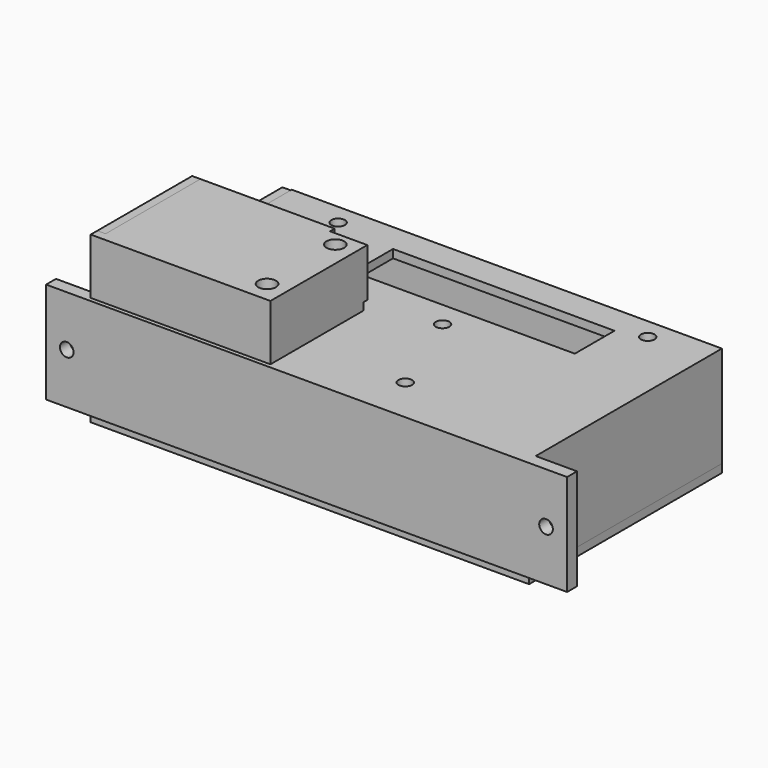
from build123d import *

# Parameters (mm, degrees)
SKETCH001_R          = 1.65
SKETCH001_W          = 53.6
SKETCH001_H          = 12
PAD_DEPTH            = 2
SKETCH002_R          = 2.65
SKETCH002_R_2        = 1.65
PAD001_DEPTH         = 6.5
SKETCH003_R          = 2.65
SKETCH003_R_2        = 1.65
PAD002_DEPTH         = 6.5
SKETCH004_R          = 2.65
SKETCH004_R_2        = 1.65
PAD003_DEPTH         = 6.5
SKETCH005_R          = 2.65
SKETCH005_R_2        = 1.65
PAD004_DEPTH         = 6.5
SKETCH006_R          = 2.65
SKETCH006_R_2        = 1.65
PAD005_DEPTH         = 6.5
PAD006_DEPTH         = 24.5
CYLINDER_R           = 1.65
CYLINDER_DEPTH       = 100
CYLINDER001_R        = 1.65
CYLINDER001_DEPTH    = 100
SKETCH015_W          = 8
SKETCH015_H          = 8
PAD012_DEPTH         = 9
CYLINDER024_R        = 1.65
CYLINDER024_DEPTH    = 10
CYLINDER025_R        = 1.95
CYLINDER025_DEPTH    = 5.7
CYLINDER026_R        = 2.15
CYLINDER026_DEPTH    = 4
SKETCH008_W          = 106.1
SKETCH008_H          = 58.34
SKETCH008_R          = 2.15
PAD007_DEPTH         = 2
CYLINDER002_R        = 3
CYLINDER002_DEPTH    = 4
CYLINDER003_R        = 3
CYLINDER003_DEPTH    = 4
CYLINDER004_R        = 3
CYLINDER004_DEPTH    = 4
CYLINDER005_R        = 1.65
CYLINDER005_DEPTH    = 10
CYLINDER006_R        = 1.65
CYLINDER006_DEPTH    = 10
CYLINDER007_R        = 1.65
CYLINDER007_DEPTH    = 10
CYLINDER008_R        = 1.96
CYLINDER008_DEPTH    = 3.7
CYLINDER009_R        = 1.96
CYLINDER009_DEPTH    = 3.7
CYLINDER010_R        = 1.96
CYLINDER010_DEPTH    = 3.7
CYLINDER011_R        = 2.15
CYLINDER011_DEPTH    = 2.2
CYLINDER012_R        = 2.15
CYLINDER012_DEPTH    = 2.2
CYLINDER013_R        = 2.15
CYLINDER013_DEPTH    = 2.2
PAD008_START         = 2
SKETCH009_W          = 101.9
SKETCH009_H          = 53.94
PAD008_DEPTH         = 4
SKETCH010_R          = 3.25
SKETCH010_R_2        = 1.65
SKETCH010_W          = 10
SKETCH010_H          = 12
PAD009_DEPTH         = 2
SKETCH017_R          = 2.15
PAD014_DEPTH         = 4
SKETCH011_W          = 39.5
SKETCH011_H          = 26.7
PAD010_DEPTH         = 2
PAD011_DEPTH         = 2
PAD011_DEPTH_BACK    = 11.5
CYLINDER014_R        = 4
CYLINDER014_DEPTH    = 5.5
CYLINDER015_R        = 2.6
CYLINDER015_DEPTH    = 10
CYLINDER016_R        = 4
CYLINDER016_DEPTH    = 5.5
CYLINDER017_R        = 2.6
CYLINDER017_DEPTH    = 9.7
CYLINDER018_R        = 1.65
CYLINDER018_DEPTH    = 100
CYLINDER019_R        = 1.65
CYLINDER019_DEPTH    = 100
CYLINDER020_R        = 1.95
CYLINDER020_DEPTH    = 5.7
CYLINDER021_R        = 1.95
CYLINDER021_DEPTH    = 5.7
CYLINDER022_R        = 2.15
CYLINDER022_DEPTH    = 4
CYLINDER023_R        = 2.15
CYLINDER023_DEPTH    = 4
POCKET_START         = -9.7
SKETCH013_W          = 12
SKETCH013_H          = 2.5
POCKET_DEPTH         = 1.8
SKETCH014_W          = 9
SKETCH014_H          = 1.4
POCKET001_DEPTH      = 11.501
POCKET001_DEPTH_BACK = 2.001
SKETCH016_R          = 2.25
SKETCH016_R_2        = 1.65
PAD013_DEPTH         = 11


with BuildPart() as face:
    # Sketch001 → Pad (new body)
    with BuildSketch(Plane.XY):
        Polygon((0, 24.7), (34.3, 24.7), (34.3, 19.1), (39, 19.1), (39, 6.1), (34.3, 6.1), (34.3, 0.5), (0, 0.5), (0, -0.5), (102.1, -0.5), (102.1, 53.84), (0, 53.84), align=None)
        with Locations((15.24, 50.8)):
            Circle(SKETCH001_R, mode=Mode.SUBTRACT)
        with Locations((90.17, 50.8)):
            Circle(SKETCH001_R, mode=Mode.SUBTRACT)
        with Locations((66.04, 7.62)):
            Circle(SKETCH001_R, mode=Mode.SUBTRACT)
        with Locations((56.67, 30.61)):
            Circle(SKETCH001_R, mode=Mode.SUBTRACT)
        with Locations((36.65, 23.19)):
            Circle(SKETCH001_R, mode=Mode.SUBTRACT)
        with Locations((36.65, 2.54)):
            Circle(SKETCH001_R, mode=Mode.SUBTRACT)
        with Locations((56.9, 42.84)):
            Rectangle(SKETCH001_W, SKETCH001_H, mode=Mode.SUBTRACT)
    extrude(amount=-PAD_DEPTH)

    # Sketch002 → Pad001 (join)
    with BuildSketch(Plane.XY):
        with Locations((15.24, 50.8)):
            Circle(SKETCH002_R)
        with Locations((15.24, 50.8)):
            Circle(SKETCH002_R_2, mode=Mode.SUBTRACT)
    extrude(amount=-PAD001_DEPTH)

    # Sketch003 → Pad002 (join)
    with BuildSketch(Plane.XY):
        with Locations((90.17, 50.8)):
            Circle(SKETCH003_R)
        with Locations((90.17, 50.8)):
            Circle(SKETCH003_R_2, mode=Mode.SUBTRACT)
    extrude(amount=-PAD002_DEPTH)

    # Sketch004 → Pad003 (join)
    with BuildSketch(Plane.XY):
        with Locations((56.67, 30.61)):
            Circle(SKETCH004_R)
        with Locations((56.67, 30.61)):
            Circle(SKETCH004_R_2, mode=Mode.SUBTRACT)
    extrude(amount=-PAD003_DEPTH)

    # Sketch005 → Pad004 (join)
    with BuildSketch(Plane.XY):
        with Locations((66.04, 7.62)):
            Circle(SKETCH005_R)
        with Locations((66.04, 7.62)):
            Circle(SKETCH005_R_2, mode=Mode.SUBTRACT)
    extrude(amount=-PAD004_DEPTH)

    # Sketch006 → Pad005 (join)
    with BuildSketch(Plane.XY):
        with Locations((96.52, 2.54)):
            Circle(SKETCH006_R)
        with Locations((96.52, 2.54)):
            Circle(SKETCH006_R_2, mode=Mode.SUBTRACT)
    extrude(amount=-PAD005_DEPTH)

    # Sketch007 → Pad006 (join)
    with BuildSketch(Plane.XY):
        Polygon((34.3, -0.5), (102.1, -0.5), (102.1, 53.84), (0, 53.84), (0, 55.84), (104.1, 55.84), (104.1, -0.5), (114.1, -0.5), (114.1, -3.5), (-12, -3.5), (-12, -0.5), align=None)
    extrude(amount=-PAD006_DEPTH)

    # Cylinder → Cylinder (cut)
    with BuildSketch(Plane(origin=(109, 0, -12.25), x_dir=(1, 0, 0), z_dir=(0, -1, 0))):
        Circle(CYLINDER_R)
    extrude(amount=CYLINDER_DEPTH, mode=Mode.SUBTRACT)

    # Cylinder001 → Cylinder001 (cut)
    with BuildSketch(Plane(origin=(-7, 0, -12.25), x_dir=(1, 0, 0), z_dir=(0, -1, 0))):
        Circle(CYLINDER001_R)
    extrude(amount=CYLINDER001_DEPTH, mode=Mode.SUBTRACT)

    # Sketch015 → Pad012 (join)
    with BuildSketch(Plane.XY):
        with Locations((4, 28.7)):
            Rectangle(SKETCH015_W, SKETCH015_H)
    extrude(amount=-PAD012_DEPTH)

    # Cylinder024 → Cylinder024 (cut)
    with BuildSketch(Plane(origin=(0, 28.7, -5), x_dir=(0, 1, 0), z_dir=(1, 0, 0))):
        Circle(CYLINDER024_R)
    extrude(amount=CYLINDER024_DEPTH, mode=Mode.SUBTRACT)

    # Cylinder025 → Cylinder025 (cut)
    with BuildSketch(Plane(origin=(2.3, 28.7, -5), x_dir=(0, 1, 0), z_dir=(1, 0, 0))):
        Circle(CYLINDER025_R)
    extrude(amount=CYLINDER025_DEPTH, mode=Mode.SUBTRACT)

    # Cylinder026 → Cylinder026 (cut)
    with BuildSketch(Plane(origin=(4, 28.7, -5), x_dir=(0, 1, 0), z_dir=(1, 0, 0))):
        Circle(CYLINDER026_R)
    extrude(amount=CYLINDER026_DEPTH, mode=Mode.SUBTRACT)


with BuildPart() as lid:
    # Sketch008 → Pad007 (new body)
    with BuildSketch(Plane.XY):
        with Locations((51.05, 26.67)):
            Rectangle(SKETCH008_W, SKETCH008_H)
        with Locations((15.24, 50.8)):
            Circle(SKETCH008_R, mode=Mode.SUBTRACT)
        with Locations((90.17, 50.8)):
            Circle(SKETCH008_R, mode=Mode.SUBTRACT)
        with Locations((66.04, 7.62)):
            Circle(SKETCH008_R, mode=Mode.SUBTRACT)
    extrude(amount=PAD007_DEPTH)

    # Cylinder002 → Cylinder002 (join)
    with BuildSketch(Plane(origin=(15.24, 50.8, 2), x_dir=(1, 0, 0), z_dir=(0, 0, 1))):
        Circle(CYLINDER002_R)
    extrude(amount=CYLINDER002_DEPTH)

    # Cylinder003 → Cylinder003 (join)
    with BuildSketch(Plane(origin=(90.17, 50.8, 2), x_dir=(1, 0, 0), z_dir=(0, 0, 1))):
        Circle(CYLINDER003_R)
    extrude(amount=CYLINDER003_DEPTH)

    # Cylinder004 → Cylinder004 (join)
    with BuildSketch(Plane(origin=(66.04, 7.62, 2), x_dir=(1, 0, 0), z_dir=(0, 0, 1))):
        Circle(CYLINDER004_R)
    extrude(amount=CYLINDER004_DEPTH)

    # Cylinder005 → Cylinder005 (cut)
    with BuildSketch(Plane(origin=(15.24, 50.8, 0), x_dir=(1, 0, 0), z_dir=(0, 0, 1))):
        Circle(CYLINDER005_R)
    extrude(amount=CYLINDER005_DEPTH, mode=Mode.SUBTRACT)

    # Cylinder006 → Cylinder006 (cut)
    with BuildSketch(Plane(origin=(90.17, 50.8, 0), x_dir=(1, 0, 0), z_dir=(0, 0, 1))):
        Circle(CYLINDER006_R)
    extrude(amount=CYLINDER006_DEPTH, mode=Mode.SUBTRACT)

    # Cylinder007 → Cylinder007 (cut)
    with BuildSketch(Plane(origin=(66.04, 7.62, 0), x_dir=(1, 0, 0), z_dir=(0, 0, 1))):
        Circle(CYLINDER007_R)
    extrude(amount=CYLINDER007_DEPTH, mode=Mode.SUBTRACT)

    # Cylinder008 → Cylinder008 (cut)
    with BuildSketch(Plane(origin=(15.24, 50.8, 2), x_dir=(1, 0, 0), z_dir=(0, 0, 1))):
        Circle(CYLINDER008_R)
    extrude(amount=CYLINDER008_DEPTH, mode=Mode.SUBTRACT)

    # Cylinder009 → Cylinder009 (cut)
    with BuildSketch(Plane(origin=(90.17, 50.8, 2), x_dir=(1, 0, 0), z_dir=(0, 0, 1))):
        Circle(CYLINDER009_R)
    extrude(amount=CYLINDER009_DEPTH, mode=Mode.SUBTRACT)

    # Cylinder010 → Cylinder010 (cut)
    with BuildSketch(Plane(origin=(66.04, 7.62, 2), x_dir=(1, 0, 0), z_dir=(0, 0, 1))):
        Circle(CYLINDER010_R)
    extrude(amount=CYLINDER010_DEPTH, mode=Mode.SUBTRACT)

    # Cylinder011 → Cylinder011 (cut)
    with BuildSketch(Plane(origin=(15.24, 50.8, 2), x_dir=(1, 0, 0), z_dir=(0, 0, 1))):
        Circle(CYLINDER011_R)
    extrude(amount=CYLINDER011_DEPTH, mode=Mode.SUBTRACT)

    # Cylinder012 → Cylinder012 (cut)
    with BuildSketch(Plane(origin=(90.17, 50.8, 2), x_dir=(1, 0, 0), z_dir=(0, 0, 1))):
        Circle(CYLINDER012_R)
    extrude(amount=CYLINDER012_DEPTH, mode=Mode.SUBTRACT)

    # Cylinder013 → Cylinder013 (cut)
    with BuildSketch(Plane(origin=(66.04, 7.62, 2), x_dir=(1, 0, 0), z_dir=(0, 0, 1))):
        Circle(CYLINDER013_R)
    extrude(amount=CYLINDER013_DEPTH, mode=Mode.SUBTRACT)

    # Sketch009 → Pad008 (join)
    with BuildSketch(Plane.XY.offset(PAD008_START)):
        with Locations((50.95, 26.67)):
            Rectangle(SKETCH009_W, SKETCH009_H)
        with BuildLine():
            Line((100.9, 52.34), (100.9, 0.7))
            Line((100.9, 0.7), (1, 0.7))
            Line((1, 0.7), (1, 52.34))
            Line((1, 52.34), (13.7397, 52.34))
            ThreePointArc((16.7403, 52.34), (15.24, 52.95), (13.7397, 52.34))
            Line((16.7403, 52.34), (88.6697, 52.34))
            ThreePointArc((91.6703, 52.34), (90.17, 52.95), (88.6697, 52.34))
            Line((91.6703, 52.34), (100.9, 52.34))
        make_face(mode=Mode.SUBTRACT)
    extrude(amount=PAD008_DEPTH)

    # Sketch010 → Pad009 (join)
    with BuildSketch(Plane.YZ):
        Polygon((55.5, 0), (55.5, 26.5), (28.2, 26.5), (28.2, 40), (-0.5, 40), (-0.5, 0), align=None)
        with Locations((20.2, 34.65)):
            Circle(SKETCH010_R, mode=Mode.SUBTRACT)
        with Locations((28.7, 21.5)):
            Circle(SKETCH010_R_2, mode=Mode.SUBTRACT)
        with Locations((8, 13)):
            Rectangle(SKETCH010_W, SKETCH010_H, mode=Mode.SUBTRACT)
        with BuildLine():
            Line((13.5, 27.5), (8.5, 27.5))
            ThreePointArc((8.5, 27.5), (6.5, 25.5), (8.5, 23.5))
            Line((8.5, 23.5), (13.5, 23.5))
            ThreePointArc((13.5, 23.5), (15.5, 25.5), (13.5, 27.5))
        make_face(mode=Mode.SUBTRACT)
        with BuildLine():
            Line((41, 7.15), (36, 7.15))
            ThreePointArc((36, 11.15), (34, 9.15), (36, 7.15))
            Line((36, 11.15), (41, 11.15))
            ThreePointArc((41, 7.15), (43, 9.15), (41, 11.15))
        make_face(mode=Mode.SUBTRACT)
        with BuildLine():
            Line((25, 11.15), (20, 11.15))
            ThreePointArc((20, 11.15), (18, 9.15), (20, 7.15))
            Line((20, 7.15), (25, 7.15))
            ThreePointArc((25, 7.15), (27, 9.15), (25, 11.15))
        make_face(mode=Mode.SUBTRACT)
    extrude(amount=-PAD009_DEPTH)

    # Sketch017 → Pad014 (join)
    with BuildSketch(Plane.XY):
        with BuildLine():
            Line((65.04, 2.721021), (65.04, 0))
            Line((65.04, 0), (67.04, 0))
            Line((67.04, 2.721021), (67.04, 0))
            ThreePointArc((67.04, 2.721021), (70.878574, 6.359759), (69.30277, 11.408711))
            Line((69.30277, 11.408711), (88.653117, 46.035646))
            ThreePointArc((88.653117, 46.035646), (94.079512, 47.682996), (94.476785, 53.34))
            Line((85.863215, 53.34), (94.476785, 53.34))
            ThreePointArc((85.863215, 53.34), (85.236676, 49.986175), (86.90723, 47.011289))
            Line((86.90723, 47.011289), (67.556883, 12.384354))
            ThreePointArc((67.556883, 12.384354), (65.152945, 12.540684), (62.954923, 11.554756))
            Line((62.954923, 11.554756), (19.620374, 48.389123))
            ThreePointArc((19.620374, 48.389123), (20.239448, 50.87431), (19.546785, 53.34))
            Line((10.933215, 53.34), (19.546785, 53.34))
            ThreePointArc((10.933215, 53.34), (11.945496, 47.038851), (18.325077, 46.865244))
            Line((18.325077, 46.865244), (61.659626, 10.030877))
            ThreePointArc((61.659626, 10.030877), (61.501762, 5.521335), (65.04, 2.721021))
        make_face()
        with Locations((15.24, 50.8)):
            Circle(SKETCH017_R, mode=Mode.SUBTRACT)
        with Locations((90.17, 50.8)):
            Circle(SKETCH017_R, mode=Mode.SUBTRACT)
        with Locations((66.04, 7.62)):
            Circle(SKETCH017_R, mode=Mode.SUBTRACT)
    extrude(amount=PAD014_DEPTH)


with BuildPart() as lid_1:
    # Body001 placement: moved
    add(lid.part.moved(Location((0, 0, -26.5))))


with BuildPart() as gpsmodulecover:
    # Sketch011 → Pad010 (new body)
    with BuildSketch(Plane.XY):
        with Locations((19.75, 12.85)):
            Rectangle(SKETCH011_W, SKETCH011_H)
    extrude(amount=PAD010_DEPTH)

    # Sketch012 → Pad011 (join, two sides)
    with BuildSketch(Plane.XY) as pad011_sk:
        Polygon((0, 26.2), (39.5, 26.2), (39.5, -0.5), (-2, -0.5), (-2, -2.5), (41.5, -2.5), (41.5, 28.2), (0, 28.2), align=None)
    extrude(amount=PAD011_DEPTH)
    extrude(pad011_sk.sketch, amount=-PAD011_DEPTH_BACK)

    # Cylinder014 → Cylinder014 (join)
    with BuildSketch(Plane(origin=(36.65, 2.54, 0), x_dir=(-1, 0, 0), z_dir=(0, 0, -1))):
        Circle(CYLINDER014_R)
    extrude(amount=CYLINDER014_DEPTH)

    # Cylinder015 → Cylinder015 (join)
    with BuildSketch(Plane(origin=(36.65, 2.54, 0), x_dir=(-1, 0, 0), z_dir=(0, 0, -1))):
        Circle(CYLINDER015_R)
    extrude(amount=CYLINDER015_DEPTH)

    # Cylinder016 → Cylinder016 (join)
    with BuildSketch(Plane(origin=(36.65, 23.19, 0), x_dir=(-1, 0, 0), z_dir=(0, 0, -1))):
        Circle(CYLINDER016_R)
    extrude(amount=CYLINDER016_DEPTH)

    # Cylinder017 → Cylinder017 (join)
    with BuildSketch(Plane(origin=(36.65, 23.19, 0), x_dir=(-1, 0, 0), z_dir=(0, 0, -1))):
        Circle(CYLINDER017_R)
    extrude(amount=CYLINDER017_DEPTH)

    # Cylinder018 → Cylinder018 (cut)
    with BuildSketch(Plane(origin=(36.65, 2.54, 3), x_dir=(-1, 0, 0), z_dir=(0, 0, -1))):
        Circle(CYLINDER018_R)
    extrude(amount=CYLINDER018_DEPTH, mode=Mode.SUBTRACT)

    # Cylinder019 → Cylinder019 (cut)
    with BuildSketch(Plane(origin=(36.65, 23.19, 3), x_dir=(-1, 0, 0), z_dir=(0, 0, -1))):
        Circle(CYLINDER019_R)
    extrude(amount=CYLINDER019_DEPTH, mode=Mode.SUBTRACT)

    # Cylinder020 → Cylinder020 (cut)
    with BuildSketch(Plane(origin=(36.65, 2.54, 2), x_dir=(-1, 0, 0), z_dir=(0, 0, -1))):
        Circle(CYLINDER020_R)
    extrude(amount=CYLINDER020_DEPTH, mode=Mode.SUBTRACT)

    # Cylinder021 → Cylinder021 (cut)
    with BuildSketch(Plane(origin=(36.65, 23.19, 2), x_dir=(-1, 0, 0), z_dir=(0, 0, -1))):
        Circle(CYLINDER021_R)
    extrude(amount=CYLINDER021_DEPTH, mode=Mode.SUBTRACT)

    # Cylinder022 → Cylinder022 (cut)
    with BuildSketch(Plane(origin=(36.65, 2.54, 2), x_dir=(-1, 0, 0), z_dir=(0, 0, -1))):
        Circle(CYLINDER022_R)
    extrude(amount=CYLINDER022_DEPTH, mode=Mode.SUBTRACT)

    # Cylinder023 → Cylinder023 (cut)
    with BuildSketch(Plane(origin=(36.65, 23.19, 2), x_dir=(-1, 0, 0), z_dir=(0, 0, -1))):
        Circle(CYLINDER023_R)
    extrude(amount=CYLINDER023_DEPTH, mode=Mode.SUBTRACT)

    # Sketch013 → Pocket (cut)
    with BuildSketch(Plane.XY.offset(POCKET_START)):
        with Locations((35.5, 26.95)):
            Rectangle(SKETCH013_W, SKETCH013_H)
    extrude(amount=-POCKET_DEPTH, mode=Mode.SUBTRACT)

    # Sketch014 → Pocket001 (cut, two sides)
    with BuildSketch(Plane.XY) as pocket001_sk:
        with Locations((37, 27.5)):
            Rectangle(SKETCH014_W, SKETCH014_H)
    extrude(amount=-POCKET001_DEPTH, mode=Mode.SUBTRACT)
    extrude(pocket001_sk.sketch, amount=POCKET001_DEPTH_BACK, mode=Mode.SUBTRACT)


with BuildPart() as gpsmodulecover_1:
    # Body002 placement: moved
    add(gpsmodulecover.part.moved(Location((0, 0, 11.5))))


with BuildPart() as spacer:
    # Sketch016 → Pad013 (new body)
    with BuildSketch(Plane.XY):
        Circle(SKETCH016_R)
        Circle(SKETCH016_R_2, mode=Mode.SUBTRACT)
    extrude(amount=PAD013_DEPTH)


with BuildPart() as spacer_1:
    # Body003 placement: moved
    add(spacer.part.moved(Location((-7, 5, -26))))


solid = Compound([face.part, lid_1.part, gpsmodulecover_1.part, spacer_1.part])
